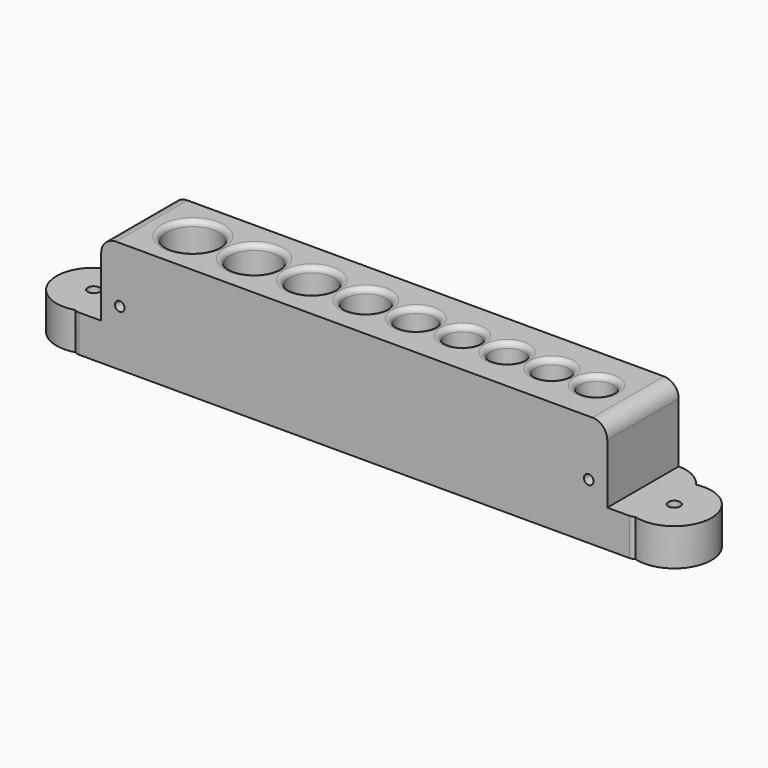
from build123d import *

# Parameters (mm, degrees)
CYLINDER018_R     = 1.3
CYLINDER018_DEPTH = 25
CYLINDER017_R     = 1.3
CYLINDER017_DEPTH = 25
CYLINDER007_R     = 6.5
CYLINDER007_DEPTH = 30
FILLET008_R       = 6.4
CYLINDER008_R     = 6
CYLINDER008_DEPTH = 30
FILLET009_R       = 5.9
CYLINDER009_R     = 5.5
CYLINDER009_DEPTH = 30
FILLET010_R       = 5.4
CYLINDER010_R     = 5
CYLINDER010_DEPTH = 30
FILLET011_R       = 4.9
CYLINDER011_R     = 4.5
CYLINDER011_DEPTH = 30
FILLET012_R       = 4.4
CYLINDER012_R     = 4.5
CYLINDER012_DEPTH = 30
FILLET013_R       = 4.4
CYLINDER013_R     = 4.5
CYLINDER013_DEPTH = 30
FILLET014_R       = 4.4
CYLINDER014_R     = 4.5
CYLINDER014_DEPTH = 30
FILLET015_R       = 4.4
CYLINDER006_R     = 7
CYLINDER006_DEPTH = 30
FILLET007_R       = 6.9
BOX005_W          = 136
BOX005_H          = 24
BOX005_DEPTH      = 30
FILLET030_R       = 4
FILLET031_R       = 1.4
BOX003_W          = 10
BOX003_H          = 24
BOX003_DEPTH      = 10
FILLET024_R       = 2
CHAMFER002_SIZE   = 4
FILLET025_R       = 2
FILLET026_R       = 10
BOX004_W          = 10
BOX004_H          = 24
BOX004_DEPTH      = 10
FILLET027_R       = 2
CHAMFER003_SIZE   = 4
FILLET028_R       = 2
FILLET029_R       = 10
TUBE003_R         = 10
TUBE003_R_2       = 1.6
TUBE003_DEPTH     = 10
TUBE002_R         = 10
TUBE002_R_2       = 1.6
TUBE002_DEPTH     = 10
CHAMFER011_SIZE   = 2


with BuildPart() as obj1:
    # Cylinder018 → Cylinder018 (new body)
    with BuildSketch(Plane(origin=(113, -20, 15), x_dir=(1, 0, 0), z_dir=(0, 1, 0))):
        Circle(CYLINDER018_R)
    extrude(amount=CYLINDER018_DEPTH)


with BuildPart() as fusion005:
    # Cylinder017 → Cylinder017 (new body)
    with BuildSketch(Plane(origin=(-13, -20, 15), x_dir=(1, 0, 0), z_dir=(0, 1, 0))):
        Circle(CYLINDER017_R)
    extrude(amount=CYLINDER017_DEPTH)

    # Fusion005: union obj1
    add(obj1.part)


with BuildPart() as fillet008:
    # Cylinder007 → Cylinder007 (new body)
    with BuildSketch(Plane(origin=(13.5, 0, 2), x_dir=(1, 0, 0), z_dir=(0, 0, 1))):
        Circle(CYLINDER007_R)
    extrude(amount=CYLINDER007_DEPTH)

    # Fillet008
    fillet008_edges = [fillet008.edges().sort_by_distance(p)[0] for p in [
        (7, 0, 2),
    ]]
    fillet(fillet008_edges, radius=FILLET008_R)


with BuildPart() as fillet009:
    # Cylinder008 → Cylinder008 (new body)
    with BuildSketch(Plane(origin=(29, 0, 2), x_dir=(1, 0, 0), z_dir=(0, 0, 1))):
        Circle(CYLINDER008_R)
    extrude(amount=CYLINDER008_DEPTH)

    # Fillet009
    fillet009_edges = [fillet009.edges().sort_by_distance(p)[0] for p in [
        (23, 0, 2),
    ]]
    fillet(fillet009_edges, radius=FILLET009_R)


with BuildPart() as fillet010:
    # Cylinder009 → Cylinder009 (new body)
    with BuildSketch(Plane(origin=(43.5, 0, 2), x_dir=(1, 0, 0), z_dir=(0, 0, 1))):
        Circle(CYLINDER009_R)
    extrude(amount=CYLINDER009_DEPTH)

    # Fillet010
    fillet010_edges = [fillet010.edges().sort_by_distance(p)[0] for p in [
        (38, 0, 2),
    ]]
    fillet(fillet010_edges, radius=FILLET010_R)


with BuildPart() as fillet011:
    # Cylinder010 → Cylinder010 (new body)
    with BuildSketch(Plane(origin=(57, 0, 2), x_dir=(1, 0, 0), z_dir=(0, 0, 1))):
        Circle(CYLINDER010_R)
    extrude(amount=CYLINDER010_DEPTH)

    # Fillet011
    fillet011_edges = [fillet011.edges().sort_by_distance(p)[0] for p in [
        (52, 0, 2),
    ]]
    fillet(fillet011_edges, radius=FILLET011_R)


with BuildPart() as fillet012:
    # Cylinder011 → Cylinder011 (new body)
    with BuildSketch(Plane(origin=(69.5, 0, 2), x_dir=(1, 0, 0), z_dir=(0, 0, 1))):
        Circle(CYLINDER011_R)
    extrude(amount=CYLINDER011_DEPTH)

    # Fillet012
    fillet012_edges = [fillet012.edges().sort_by_distance(p)[0] for p in [
        (65, 0, 2),
    ]]
    fillet(fillet012_edges, radius=FILLET012_R)


with BuildPart() as fillet013:
    # Cylinder012 → Cylinder012 (new body)
    with BuildSketch(Plane(origin=(81.5, 0, 2), x_dir=(1, 0, 0), z_dir=(0, 0, 1))):
        Circle(CYLINDER012_R)
    extrude(amount=CYLINDER012_DEPTH)

    # Fillet013
    fillet013_edges = [fillet013.edges().sort_by_distance(p)[0] for p in [
        (77, 0, 2),
    ]]
    fillet(fillet013_edges, radius=FILLET013_R)


with BuildPart() as fillet014:
    # Cylinder013 → Cylinder013 (new body)
    with BuildSketch(Plane(origin=(93.5, 0, 2), x_dir=(1, 0, 0), z_dir=(0, 0, 1))):
        Circle(CYLINDER013_R)
    extrude(amount=CYLINDER013_DEPTH)

    # Fillet014
    fillet014_edges = [fillet014.edges().sort_by_distance(p)[0] for p in [
        (89, 0, 2),
    ]]
    fillet(fillet014_edges, radius=FILLET014_R)


with BuildPart() as fillet015:
    # Cylinder014 → Cylinder014 (new body)
    with BuildSketch(Plane(origin=(105.5, 0, 2), x_dir=(1, 0, 0), z_dir=(0, 0, 1))):
        Circle(CYLINDER014_R)
    extrude(amount=CYLINDER014_DEPTH)

    # Fillet015
    fillet015_edges = [fillet015.edges().sort_by_distance(p)[0] for p in [
        (101, 0, 2),
    ]]
    fillet(fillet015_edges, radius=FILLET015_R)


with BuildPart() as fusion007:
    # Cylinder006 → Cylinder006 (new body)
    with BuildSketch(Plane(origin=(-3, 0, 2), x_dir=(1, 0, 0), z_dir=(0, 0, 1))):
        Circle(CYLINDER006_R)
    extrude(amount=CYLINDER006_DEPTH)

    # Fillet007
    fillet007_edges = [fusion007.edges().sort_by_distance(p)[0] for p in [
        (-10, 0, 2),
    ]]
    fillet(fillet007_edges, radius=FILLET007_R)

    # Fusion001: union Fillet008, Fillet009, Fillet010, Fillet011, Fillet012, Fillet013, Fillet014, Fillet015
    add(fillet008.part)
    add(fillet009.part)
    add(fillet010.part)
    add(fillet011.part)
    add(fillet012.part)
    add(fillet013.part)
    add(fillet014.part)
    add(fillet015.part)

    # Fusion007: union Fusion005
    add(fusion005.part)


with BuildPart() as fillet031:
    # Box005 → Box005 (new body)
    with BuildSketch(Plane(origin=(-18, -12, 0), x_dir=(1, 0, 0), z_dir=(0, 0, 1))):
        with Locations((68, 12)):
            Rectangle(BOX005_W, BOX005_H)
    extrude(amount=BOX005_DEPTH)

    # Cut002: cut Fusion007
    add(fusion007.part, mode=Mode.SUBTRACT)

    # Fillet030
    fillet030_edges = [fillet031.edges().sort_by_distance(p)[0] for p in [
        (-18, 0, 30),
        (118, 0, 30),
    ]]
    fillet(fillet030_edges, radius=FILLET030_R)

    # Fillet031
    fillet031_edges = [fillet031.edges().sort_by_distance(p)[0] for p in [
        (-10, 0, 30),
        (7, 0, 30),
        (23, 0, 30),
        (38, 0, 30),
        (52, 0, 30),
        (65, 0, 30),
        (77, 0, 30),
        (89, 0, 30),
        (101, 0, 30),
    ]]
    fillet(fillet031_edges, radius=FILLET031_R)


with BuildPart() as fillet026:
    # Box003 → Box003 (new body)
    with BuildSketch(Plane(origin=(-26, -12, 0), x_dir=(1, 0, 0), z_dir=(0, 0, 1))):
        with Locations((5, 12)):
            Rectangle(BOX003_W, BOX003_H)
    extrude(amount=BOX003_DEPTH)

    # Fillet024
    fillet024_edges = [fillet026.edges().sort_by_distance(p)[0] for p in [
        (-26, -12, 5),
    ]]
    fillet(fillet024_edges, radius=FILLET024_R)

    # Chamfer002
    chamfer002_edges = [fillet026.edges().sort_by_distance(p)[0] for p in [
        (-26, 12, 5),
    ]]
    chamfer(chamfer002_edges, length=CHAMFER002_SIZE)

    # Fillet025
    fillet025_edges = [fillet026.edges().sort_by_distance(p)[0] for p in [
        (-26, 8, 5),
    ]]
    fillet(fillet025_edges, radius=FILLET025_R)

    # Fillet026
    fillet026_edges = [fillet026.edges().sort_by_distance(p)[0] for p in [
        (-22, 12, 5),
    ]]
    fillet(fillet026_edges, radius=FILLET026_R)


with BuildPart() as fillet029:
    # Box004 → Box004 (new body)
    with BuildSketch(Plane(origin=(116, -12, 0), x_dir=(1, 0, 0), z_dir=(0, 0, 1))):
        with Locations((5, 12)):
            Rectangle(BOX004_W, BOX004_H)
    extrude(amount=BOX004_DEPTH)

    # Fillet027
    fillet027_edges = [fillet029.edges().sort_by_distance(p)[0] for p in [
        (126, -12, 5),
    ]]
    fillet(fillet027_edges, radius=FILLET027_R)

    # Chamfer003
    chamfer003_edges = [fillet029.edges().sort_by_distance(p)[0] for p in [
        (126, 12, 5),
    ]]
    chamfer(chamfer003_edges, length=CHAMFER003_SIZE)

    # Fillet028
    fillet028_edges = [fillet029.edges().sort_by_distance(p)[0] for p in [
        (126, 8, 5),
    ]]
    fillet(fillet028_edges, radius=FILLET028_R)

    # Fillet029
    fillet029_edges = [fillet029.edges().sort_by_distance(p)[0] for p in [
        (122, 12, 5),
    ]]
    fillet(fillet029_edges, radius=FILLET029_R)


with BuildPart() as tube003:
    # Tube003 → Tube003 (new body)
    with BuildSketch(Plane(origin=(128, -2, 0), x_dir=(1, 0, 0), z_dir=(0, 0, 1))):
        Circle(TUBE003_R)
        Circle(TUBE003_R_2, mode=Mode.SUBTRACT)
    extrude(amount=TUBE003_DEPTH)


with BuildPart() as obj2:
    # Tube002 → Tube002 (new body)
    with BuildSketch(Plane(origin=(-28, -2, 0), x_dir=(1, 0, 0), z_dir=(0, 0, 1))):
        Circle(TUBE002_R)
        Circle(TUBE002_R_2, mode=Mode.SUBTRACT)
    extrude(amount=TUBE002_DEPTH)

    # Fusion006: union Fillet026, Fillet029, Tube003
    add(fillet026.part)
    add(fillet029.part)
    add(tube003.part)

    # Chamfer011
    chamfer011_edges = [obj2.edges().sort_by_distance(p)[0] for p in [
        (-29.6, -2, 0),
        (126.4, -2, 0),
    ]]
    chamfer(chamfer011_edges, length=CHAMFER011_SIZE)

    # Fusion018: union Fillet031
    add(fillet031.part)


with BuildPart() as obj2_1:
    # Fusion018 placement: moved
    add(obj2.part.moved(Location((0, 16, 0))))


solid = obj2_1.part
